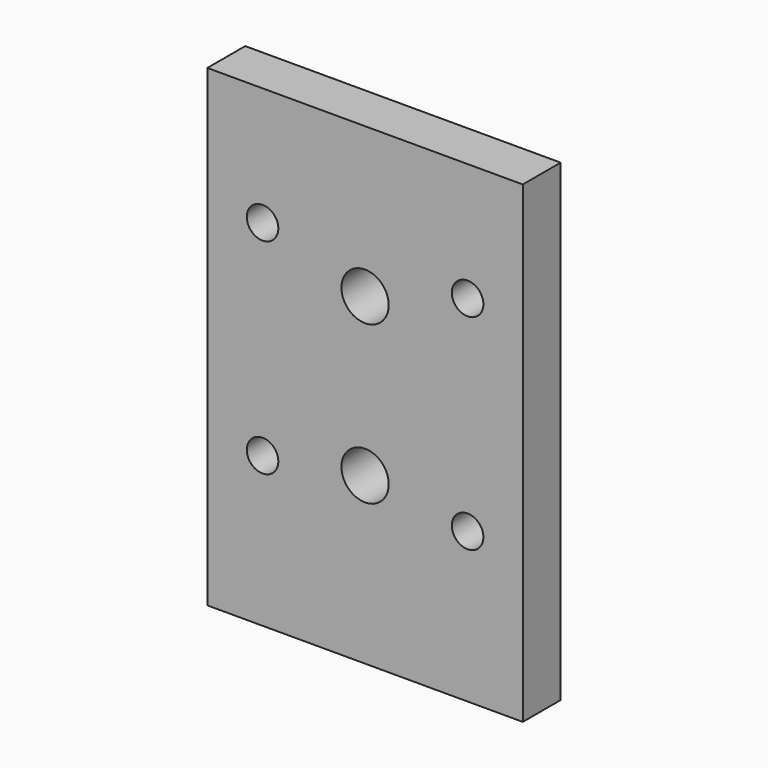
from build123d import *

# Parameters (mm, degrees)
CYLINDER001_R          = 3
CYLINDER001_DEPTH      = 10
CYLINDER001_ROLL_ANGLE = 90
ARRAY001_Z_COUNT       = 2
ARRAY001_Z_PITCH       = 20
CYLINDER_R             = 2
CYLINDER_DEPTH         = 6
CYLINDER_ROLL_ANGLE    = 90
ARRAY_X_COUNT          = 2
ARRAY_X_PITCH          = 26
ARRAY_Z_COUNT          = 2
ARRAY_Z_PITCH          = 26
BOX_W                  = 40
BOX_H                  = 60
BOX_DEPTH              = 6
BOX_ROLL_ANGLE         = 90


with BuildPart() as array001:
    # Cylinder001 → Cylinder001 (new body)
    with BuildSketch(Plane.XY):
        Circle(CYLINDER001_R)
    extrude(amount=CYLINDER001_DEPTH)


with BuildPart() as array001_1:
    # Cylinder001 roll: moved
    add(array001.part.rotate(Axis((0, 0, 0), (1, 0, 0)), CYLINDER001_ROLL_ANGLE))


with BuildPart() as array001_2:
    # Cylinder001 placement: moved
    add(array001_1.part.moved(Location((20, 0, 21))))

    # Array001 Z: Array001 ×2


with BuildPart() as array001_3:
    add(array001_2.part)
    with Locations(*[(0, 0, i * ARRAY001_Z_PITCH) for i in range(1, ARRAY001_Z_COUNT)]):
        add(array001_2.part)


with BuildPart() as array:
    # Cylinder → Cylinder (new body)
    with BuildSketch(Plane.XY):
        Circle(CYLINDER_R)
    extrude(amount=CYLINDER_DEPTH)


with BuildPart() as array_1:
    # Cylinder roll: moved
    add(array.part.rotate(Axis((0, 0, 0), (1, 0, 0)), CYLINDER_ROLL_ANGLE))


with BuildPart() as array_2:
    # Cylinder placement: moved
    add(array_1.part.moved(Location((7, 0, 19))))

    # Array X: Array ×2


with BuildPart() as array_3:
    add(array_2.part)
    with Locations(*[(i * ARRAY_X_PITCH, 0, 0) for i in range(1, ARRAY_X_COUNT)]):
        add(array_2.part)

    # Array Z: Array ×2


with BuildPart() as array_4:
    add(array_3.part)
    with Locations(*[(0, 0, i * ARRAY_Z_PITCH) for i in range(1, ARRAY_Z_COUNT)]):
        add(array_3.part)


with BuildPart() as cut001:
    # Box → Box (new body)
    with BuildSketch(Plane.XY):
        with Locations((20, 30)):
            Rectangle(BOX_W, BOX_H)
    extrude(amount=BOX_DEPTH)


with BuildPart() as cut001_1:
    # Box roll: moved
    add(cut001.part.rotate(Axis((0, 0, 0), (1, 0, 0)), BOX_ROLL_ANGLE))


with BuildPart() as cut001_2:
    # Box placement: moved
    add(cut001_1.part)

    # Cut: cut Array
    add(array_4.part, mode=Mode.SUBTRACT)

    # Cut001: cut Array001
    add(array001_3.part, mode=Mode.SUBTRACT)


solid = cut001_2.part
